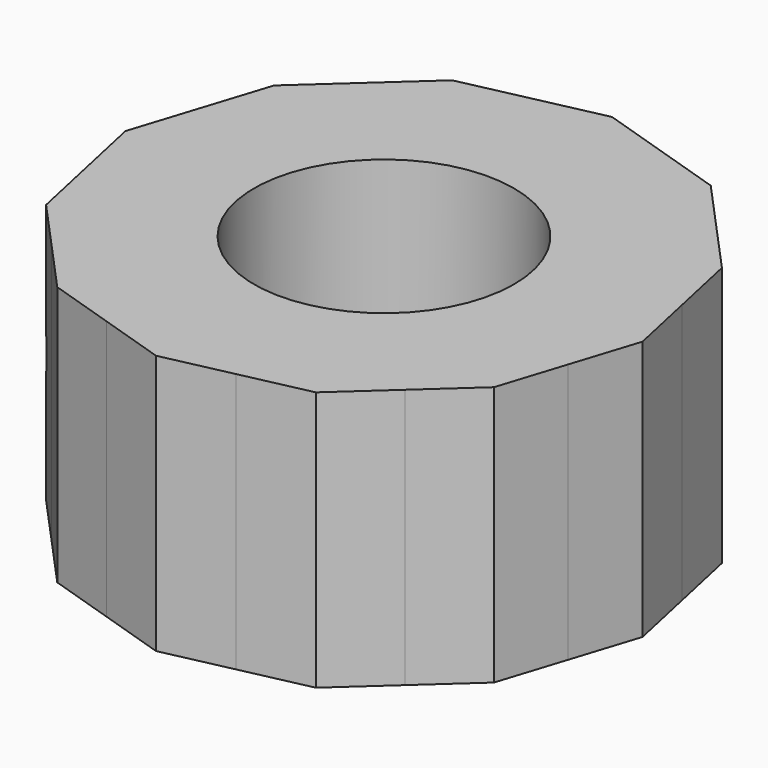
from build123d import *

# Parameters (mm, degrees)
F0_R           = 10
F1_DEPTH       = 20
F3_D           = 6.6
F3_DEPTH       = 20
F3_START       = 0.1535845
F3_CBORE_D     = 11.25
F3_CBORE_DEPTH = 6
F3_TIP         = 1.9828400428


with BuildPart() as f1:
    # F0 (on Top) → F1 (new body)
    with BuildSketch(Plane.XY):
        with BuildLine():
            ThreePointArc((-13.448304583, 14.8034828281), (-9.1586418017, 17.77974354), (-4.2448328169, 19.5443443061))
            Line((-4.2448328169, 19.5443443061), (-9.4817236961, 18.4069449839))
            Line((-9.4817236961, 18.4069449839), (-13.448304583, 14.8034828281))
        make_face()
        with BuildLine():
            ThreePointArc((-4.2448328169, 19.5443443061), (0.9582549701, 19.9770304954), (6.0960392624, 19.0483150255))
            Line((6.0960392624, 19.0483150255), (0.9920588995, 20.6817438102))
            Line((0.9920588995, 20.6817438102), (-4.2448328169, 19.5443443061))
        make_face()
        with BuildLine():
            ThreePointArc((6.0960392624, 19.0483150255), (10.8183886032, 16.8214882822), (14.8034825937, 13.448304841))
            Line((14.8034825937, 13.448304841), (11.2000201141, 17.4148860844))
            Line((11.2000201141, 17.4148860844), (6.0960392624, 19.0483150255))
        make_face()
        with BuildLine():
            ThreePointArc((14.8034825937, 13.448304841), (17.7797435807, 9.1586417227), (19.5443444178, 4.2448323026))
            Line((19.5443444178, 4.2448323026), (18.4069449839, 9.4817236961))
            Line((18.4069449839, 9.4817236961), (14.8034825937, 13.448304841))
        make_face()
        with BuildLine():
            ThreePointArc((19.5443444178, 4.2448323026), (19.8857598341, 2.1346090559), (20, 0))
            ThreePointArc((20, 0), (19.7606465192, -3.0849390825), (19.0483150857, -6.0960390743))
            Line((19.0483150857, -6.0960390743), (20.6817438102, -0.9920588995))
            Line((20.6817438102, -0.9920588995), (19.5443444178, 4.2448323026))
        make_face()
        with BuildLine():
            Line((17.4148860844, -11.2000201141), (19.0483150857, -6.0960390743))
            ThreePointArc((19.0483150857, -6.0960390743), (16.8214882492, -10.8183886546), (13.4483046044, -14.8034828087))
            Line((13.4483046044, -14.8034828087), (17.4148860844, -11.2000201141))
        make_face()
        with BuildLine():
            Line((9.4817236961, -18.4069449839), (13.4483046044, -14.8034828087))
            ThreePointArc((13.4483046044, -14.8034828087), (9.1586415818, -17.7797436533), (4.2448323054, -19.5443444172))
            Line((4.2448323054, -19.5443444172), (9.4817236961, -18.4069449839))
        make_face()
        with BuildLine():
            Line((-0.9920588995, -20.6817438102), (4.2448323054, -19.5443444172))
            ThreePointArc((4.2448323054, -19.5443444172), (-0.9582553912, -19.9770304752), (-6.0960395669, -19.0483149281))
            Line((-6.0960395669, -19.0483149281), (-0.9920588995, -20.6817438102))
        make_face()
        with BuildLine():
            Line((-11.2000201141, -17.4148860844), (-6.0960395669, -19.0483149281))
            ThreePointArc((-6.0960395669, -19.0483149281), (-10.8183888646, -16.8214881141), (-14.8034827967, -13.4483046176))
            Line((-14.8034827967, -13.4483046176), (-11.2000201141, -17.4148860844))
        make_face()
        with BuildLine():
            Line((-18.4069449839, -9.4817236961), (-14.8034827967, -13.4483046176))
            ThreePointArc((-14.8034827967, -13.4483046176), (-17.7797435576, -9.1586417675), (-19.5443443324, -4.2448326961))
            Line((-19.5443443324, -4.2448326961), (-18.4069449839, -9.4817236961))
        make_face()
        with BuildLine():
            ThreePointArc((-19.5443443324, -4.2448326961), (-19.97703048, 0.9582552902), (-19.0483148679, 6.096039755))
            Line((-19.0483148679, 6.096039755), (-20.6817438102, 0.9920588995))
            Line((-20.6817438102, 0.9920588995), (-19.5443443324, -4.2448326961))
        make_face()
        with BuildLine():
            ThreePointArc((-19.0483148679, 6.096039755), (-16.8214880481, 10.8183889673), (-13.448304583, 14.8034828281))
            Line((-13.448304583, 14.8034828281), (-17.4148860844, 11.2000201141))
            Line((-17.4148860844, 11.2000201141), (-19.0483148679, 6.096039755))
        make_face()
        with BuildLine():
            ThreePointArc((19.0483150857, -6.0960390743), (19.7606465192, -3.0849390825), (20, 0))
            ThreePointArc((20, 0), (19.8857598341, 2.1346090559), (19.5443444178, 4.2448323026))
            ThreePointArc((19.5443444178, 4.2448323026), (17.7797435807, 9.1586417227), (14.8034825937, 13.448304841))
            ThreePointArc((14.8034825937, 13.448304841), (10.8183886032, 16.8214882822), (6.0960392624, 19.0483150255))
            ThreePointArc((6.0960392624, 19.0483150255), (0.9582549701, 19.9770304954), (-4.2448328169, 19.5443443061))
            ThreePointArc((-4.2448328169, 19.5443443061), (-9.1586418017, 17.77974354), (-13.448304583, 14.8034828281))
            ThreePointArc((-13.448304583, 14.8034828281), (-16.8214880481, 10.8183889673), (-19.0483148679, 6.096039755))
            ThreePointArc((-19.0483148679, 6.096039755), (-19.97703048, 0.9582552902), (-19.5443443324, -4.2448326961))
            ThreePointArc((-19.5443443324, -4.2448326961), (-17.7797435576, -9.1586417675), (-14.8034827967, -13.4483046176))
            ThreePointArc((-14.8034827967, -13.4483046176), (-10.8183888646, -16.8214881141), (-6.0960395669, -19.0483149281))
            ThreePointArc((-6.0960395669, -19.0483149281), (-0.9582553912, -19.9770304752), (4.2448323054, -19.5443444172))
            ThreePointArc((4.2448323054, -19.5443444172), (9.1586415818, -17.7797436533), (13.4483046044, -14.8034828087))
            ThreePointArc((13.4483046044, -14.8034828087), (16.8214882492, -10.8183886546), (19.0483150857, -6.0960390743))
        make_face()
        Circle(F0_R, mode=Mode.SUBTRACT)
    extrude(amount=F1_DEPTH)

    # F3
    # its depths count from where the whole tool has entered the part; down to there all is cleared
    with Locations(Plane(origin=(-19.544344397, -4.2448323983, 0), x_dir=(0.2122416199, -0.9772172199, 0), z_dir=(-0.9772172199, -0.2122416199, 0)).offset(-F3_START)):
        with Locations((0, 10)):
            CounterBoreHole(F3_D / 2, F3_CBORE_D / 2, F3_CBORE_DEPTH, depth=F3_DEPTH)
            with Locations((0, 0, -(F3_DEPTH + F3_TIP / 2))):  # 118° drill point
                Cone(0, F3_D / 2, F3_TIP, mode=Mode.SUBTRACT)


solid = f1.part
